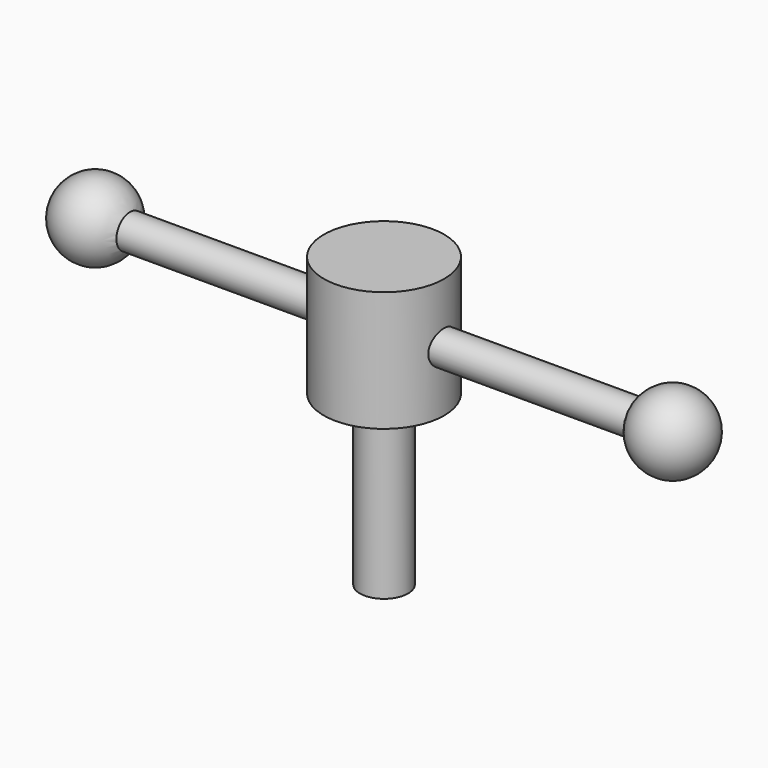
from build123d import *

# Parameters (mm, degrees)
F0_R          = 6.35
F1_DEPTH      = 44.45
F2_R          = 15.875
F3_DEPTH      = 31.75
F4_R          = 4.445
F5_DEPTH      = 76.2
F5_DEPTH_BACK = 76.2


with BuildPart() as f1:
    # F0 (on Top) → F1 (new body)
    with BuildSketch(Plane.XY):
        Circle(F0_R)
    extrude(amount=F1_DEPTH)

    # F2 (on face) → F3 (join)
    with BuildSketch(Plane.XY.offset(44.45)):
        Circle(F2_R)
    extrude(amount=F3_DEPTH)

    # F4 (on Right) → F5 (join, two sides)
    with BuildSketch(Plane.YZ) as f5_sk:
        with Locations((0, 60.325)):
            Circle(F4_R)
    extrude(amount=F5_DEPTH)
    extrude(f5_sk.sketch, amount=-F5_DEPTH_BACK)

    # F6 (on Front) → F7 (revolve)
    with BuildSketch(Plane.XZ):
        with BuildLine():
            Line((76.2, 55.88), (76.2, 64.77))
            Line((76.2, 64.77), (76.2, 70.485))
            ThreePointArc((76.2, 70.485), (66.04, 60.325), (76.2, 50.165))
            Line((76.2, 50.165), (76.2, 55.88))
        make_face()
    revolve(axis=Axis((76.2, 0, 74.606005), (0, 0, 1)))

    # F8 (on Front) → F9 (revolve)
    with BuildSketch(Plane.XZ):
        with BuildLine():
            Line((-76.2, 64.77), (-76.2, 55.88))
            Line((-76.2, 55.88), (-76.2, 50.165))
            ThreePointArc((-76.2, 50.165), (-66.04, 60.325), (-76.2, 70.485))
            Line((-76.2, 70.485), (-76.2, 64.77))
        make_face()
    revolve(axis=Axis((-76.2, 0, 45.173189), (0, 0, -1)))


solid = f1.part
